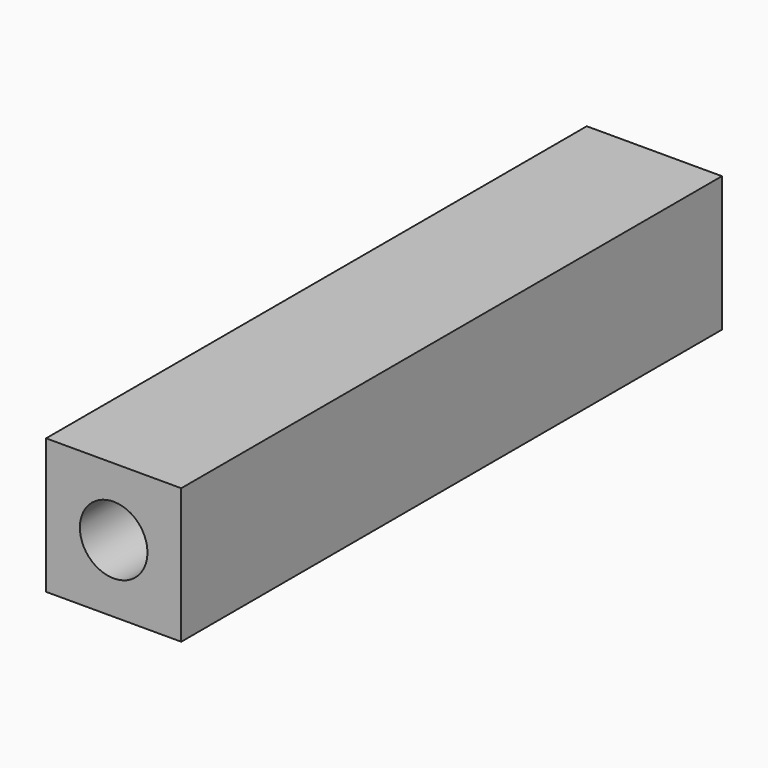
from build123d import *

# Parameters (mm, degrees)
F0_W     = 25.4
F0_H     = 25.4
F1_DEPTH = 127
F2_R     = 6.35
F3_DEPTH = 127


with BuildPart() as f1:
    # F0 (on Front) → F1 (new body)
    with BuildSketch(Plane.XZ):
        Rectangle(F0_W, F0_H)
    extrude(amount=F1_DEPTH)

    # F2 (on face) → F3 (cut, through all)
    with BuildSketch(Plane(origin=(0, 0, 0), x_dir=(-1, 0, 0), z_dir=(0, 1, 0))):
        Circle(F2_R)
    extrude(amount=-F3_DEPTH, mode=Mode.SUBTRACT)


solid = f1.part
